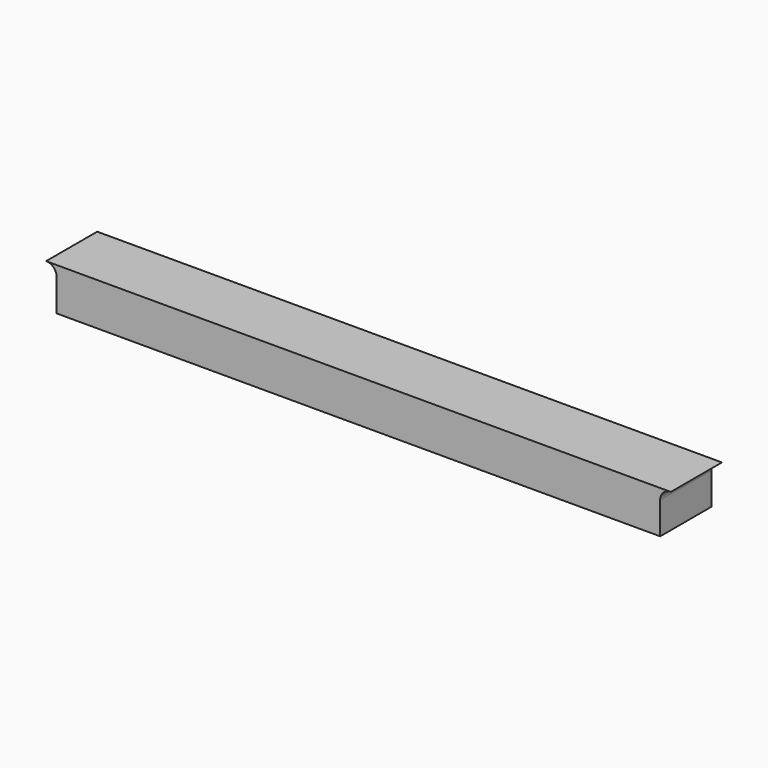
from build123d import *

# Parameters (mm, degrees)
F1_DEPTH = 19.05


with BuildPart() as f1:
    # F0 (on Front) → F1 (new body)
    with BuildSketch(Plane.XZ):
        with BuildLine():
            ThreePointArc((115.38966, 3.175), (116.319596, 5.420064), (118.56466, 6.35))
            Line((118.56466, 6.35), (-67.76466, 6.35))
            ThreePointArc((-67.76466, 6.35), (-65.519596, 5.420064), (-64.58966, 3.175))
            Line((-64.58966, 3.175), (-64.58966, -6.35))
            Line((-64.58966, -6.35), (115.38966, -6.35))
            Line((115.38966, -6.35), (115.38966, 3.175))
        make_face()
    extrude(amount=F1_DEPTH)


solid = f1.part
